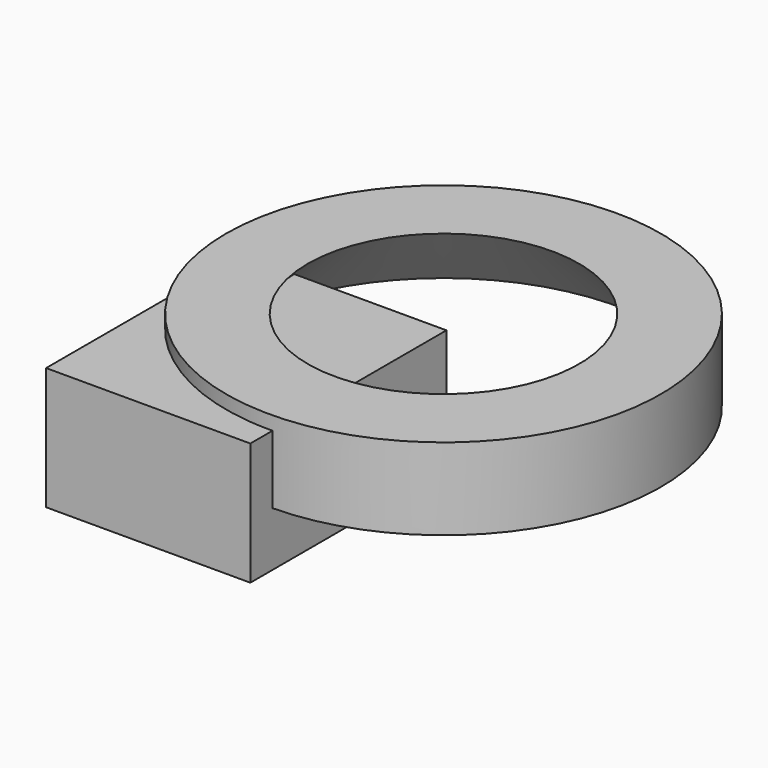
from build123d import *

# Parameters (mm, degrees)
F0_W     = 63.5
F0_H     = 38.1
F1_DEPTH = 76.2


with BuildPart() as f1:
    # F0 (on Front) → F1 (new body)
    with BuildSketch(Plane.XZ):
        with Locations((-30.827382, 33.969355)):
            Rectangle(F0_W, F0_H)
    extrude(amount=F1_DEPTH)

    # F2 (on Front) → F3 (revolve)
    with BuildSketch(Plane.XZ):
        Polygon((-67.593754, 57.227799), (-67.603478, 31.821309), (-42.193754, 57.227799), align=None)
    revolve(axis=Axis((0, 0, -39.142155), (0, 0, -1)))


solid = f1.part
